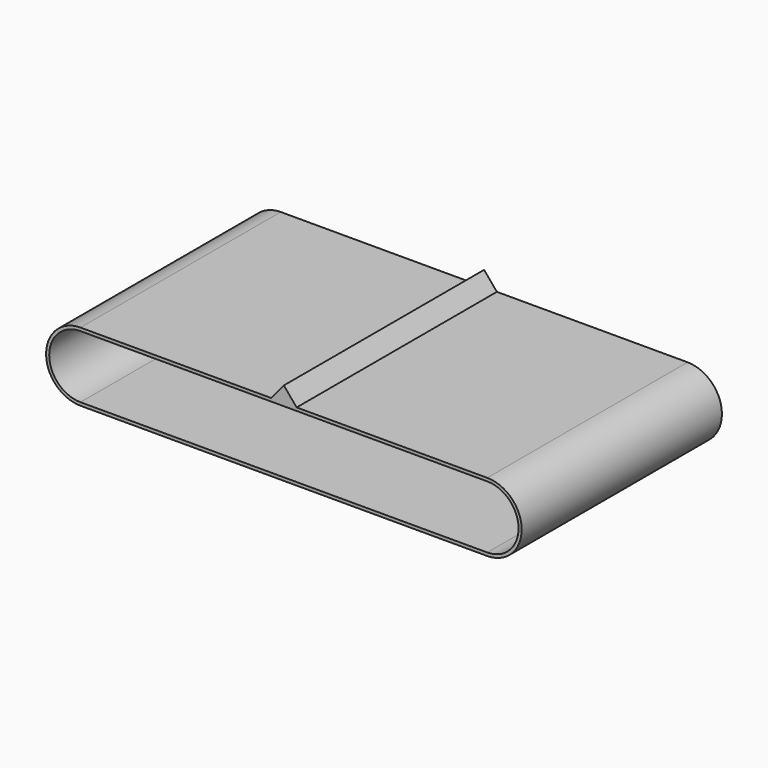
from build123d import *

# Parameters (mm, degrees)
PAD_DEPTH = 800


with BuildPart() as part:
    # Sketch → Pad (new body)
    with BuildSketch(Plane.XZ.offset(400)):
        with BuildLine():
            Line((-650.000001, 110), (-40.820946, 110))
            Line((-40.820946, 110), (0, 158.648546))
            Line((0, 158.648546), (40.820946, 110))
            Line((40.820946, 110), (649.999873, 110))
            ThreePointArc((649.999954, -110), (759.999874, 4.1e-05), (649.999873, 110))
            Line((-649.999998, -110), (649.999954, -110))
            ThreePointArc((-650.000001, 110), (-760.000001, -2e-06), (-649.999998, -110))
        make_face()
        with BuildLine():
            Line((-649.999999, 100), (649.999875, 100))
            ThreePointArc((650, -100), (749.999874, 6.3e-05), (649.999875, 100))
            Line((-650, -100), (650, -100))
            ThreePointArc((-649.999999, 100), (-750.000001, 1e-06), (-650, -100))
        make_face(mode=Mode.SUBTRACT)
    extrude(amount=-PAD_DEPTH)


solid = part.part
